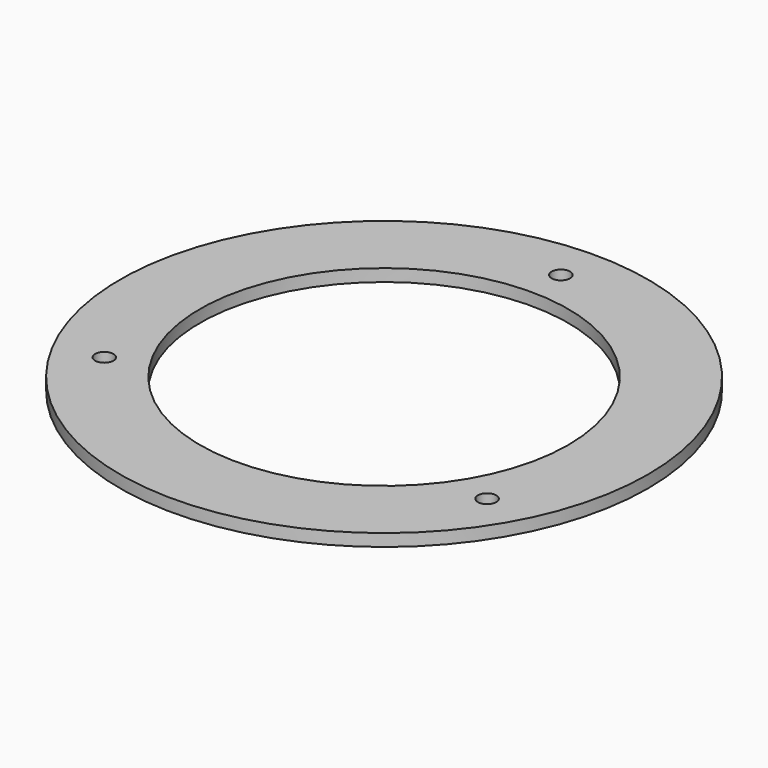
from build123d import *

# Parameters (mm, degrees)
SKETCH006_R   = 43
SKETCH006_R_2 = 1.5
SKETCH006_R_3 = 30
PAD_DEPTH     = 2


with BuildPart() as part:
    # Sketch006 → Pad (new body)
    with BuildSketch(Plane.XY.offset(22)):
        Circle(SKETCH006_R)
        with Locations((0, 36)):
            Circle(SKETCH006_R_2, mode=Mode.SUBTRACT)
        with Locations((31.176915, -18)):
            Circle(SKETCH006_R_2, mode=Mode.SUBTRACT)
        with Locations((-31.176915, -18)):
            Circle(SKETCH006_R_2, mode=Mode.SUBTRACT)
        Circle(SKETCH006_R_3, mode=Mode.SUBTRACT)
    extrude(amount=PAD_DEPTH)


solid = part.part
